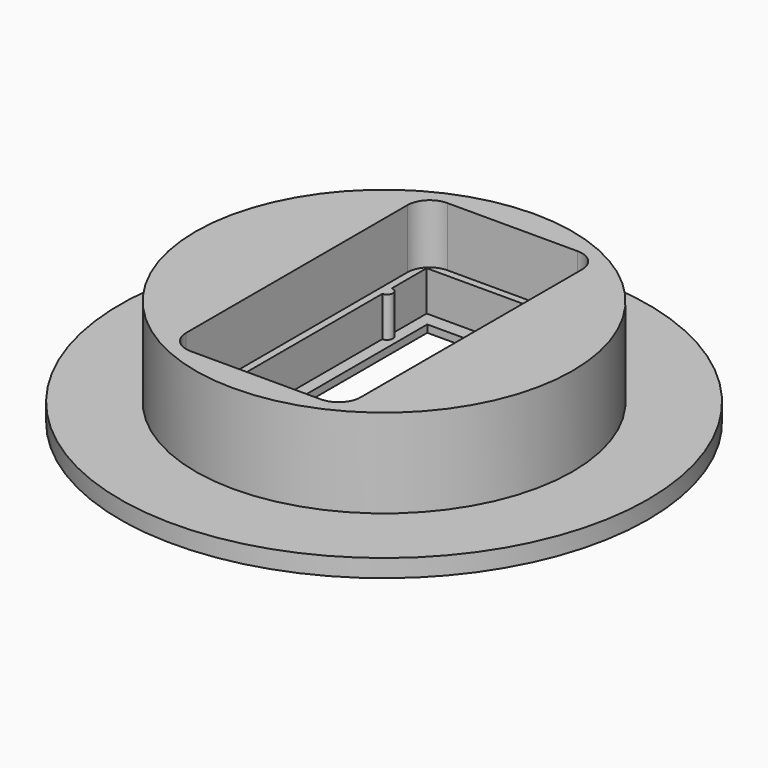
from build123d import *

# Parameters (mm, degrees)
F0_R     = 17.85
F1_DEPTH = 1.2
F2_R     = 12.75
F3_DEPTH = 6
F4_W     = 9.2
F4_H     = 18.8
F5_DEPTH = 7.201
F7_DEPTH = 6.7
F9_DEPTH = 4


with BuildPart() as f1:
    # F0 (on Top) → F1 (new body)
    with BuildSketch(Plane.XY):
        Circle(F0_R)
    extrude(amount=F1_DEPTH)

    # F2 (on face) → F3 (join)
    with BuildSketch(Plane.XY.offset(1.2)):
        Circle(F2_R)
    extrude(amount=F3_DEPTH)

    # F4 (on face) → F5 (cut, through all)
    with BuildSketch(Plane.XY.offset(7.2)):
        Rectangle(F4_W, F4_H)
    extrude(amount=-F5_DEPTH, mode=Mode.SUBTRACT)

    # F6 (on face) → F7 (cut)
    with BuildSketch(Plane.XY.offset(7.2)):
        with BuildLine():
            Line((5.4, 10.35), (-5.4, 10.35))
            Line((-5.4, 10.35), (-5.4, 7.4))
            ThreePointArc((-5.4, 7.4), (-5, 7), (-5.4, 6.6))
            Line((-5.4, 6.6), (-5.4, -6.6))
            ThreePointArc((-5.4, -6.6), (-5, -7), (-5.4, -7.4))
            Line((-5.4, -7.4), (-5.4, -10.35))
            Line((-5.4, -10.35), (5.4, -10.35))
            Line((5.4, -10.35), (5.4, -7.4))
            ThreePointArc((5.4, -7.4), (5, -7), (5.4, -6.6))
            Line((5.4, -6.6), (5.4, 6.6))
            ThreePointArc((5.4, 6.6), (5, 7), (5.4, 7.4))
            Line((5.4, 7.4), (5.4, 10.35))
        make_face()
    extrude(amount=-F7_DEPTH, mode=Mode.SUBTRACT)

    # F8 (on face) → F9 (cut)
    with BuildSketch(Plane.XY.offset(7.2)):
        with BuildLine():
            Line((4.4, 10.85), (-4.4, 10.85))
            ThreePointArc((-4.4, 10.85), (-5.46066, 10.41066), (-5.9, 9.35))
            Line((-5.9, 9.35), (-5.9, -9.35))
            ThreePointArc((-5.9, -9.35), (-5.46066, -10.41066), (-4.4, -10.85))
            Line((-4.4, -10.85), (4.4, -10.85))
            ThreePointArc((4.4, -10.85), (5.46066, -10.41066), (5.9, -9.35))
            Line((5.9, -9.35), (5.9, 9.35))
            ThreePointArc((5.9, 9.35), (5.46066, 10.41066), (4.4, 10.85))
        make_face()
    extrude(amount=-F9_DEPTH, mode=Mode.SUBTRACT)


solid = f1.part
